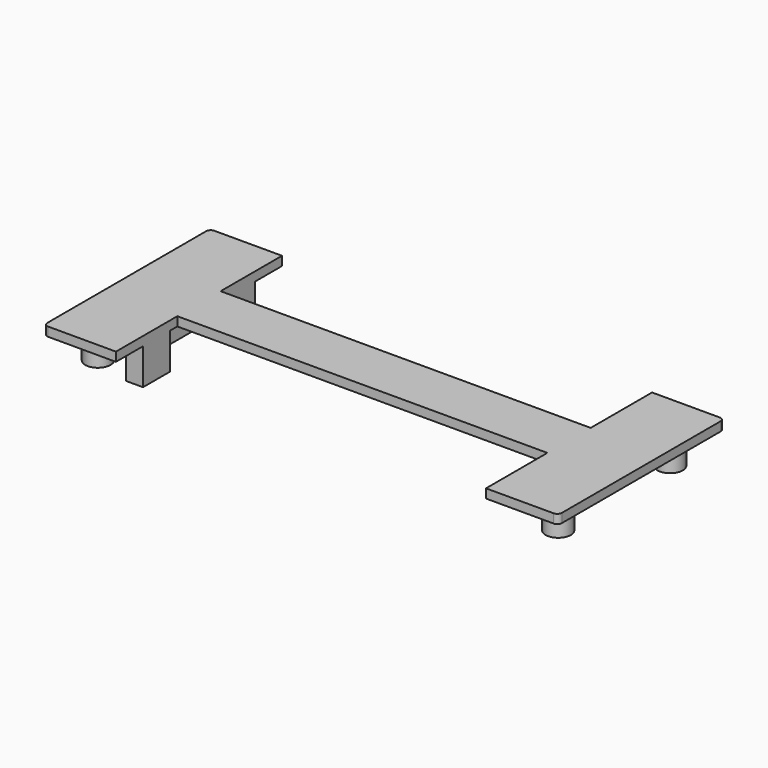
from build123d import *

# Parameters (mm, degrees)
PAD002_DEPTH            = 1
SKETCH007_R             = 1.4
SKETCH007_W             = 6
SKETCH007_H             = 8
PAD003_DEPTH            = 4
SKETCH013_W             = 2
SKETCH013_H             = 3.75
SKETCH013_H_2           = 5
PAD004_DEPTH            = 5
SKETCH014_W             = 41
SKETCH014_H             = 11.648772
SKETCH014_H_2           = 8.5
POCKET004_DEPTH         = 5.001
BODY001_PLACEMENT_ANGLE = 180


with BuildPart() as part:
    # Sketch006 → Pad002 (new body)
    with BuildSketch(Plane.XY):
        with BuildLine():
            Line((0.5, 0), (56.5, 0))
            ThreePointArc((56.5, 0), (56.853553, 0.146447), (57, 0.5))
            Line((57, 0.5), (57, 22.5))
            ThreePointArc((57, 22.5), (56.853553, 22.853553), (56.5, 23))
            Line((56.5, 23), (0.5, 23))
            ThreePointArc((0.5, 23), (0.146447, 22.853553), (0, 22.5))
            Line((0, 22.5), (0, 0.5))
            ThreePointArc((0, 0.5), (0.146447, 0.146447), (0.5, 0))
        make_face()
    extrude(amount=PAD002_DEPTH)

    # Sketch007 → Pad003 (join)
    with BuildSketch(Plane.XY):
        with Locations((3, 19.25)):
            Circle(SKETCH007_R)
        with Locations((3, 3.75)):
            Circle(SKETCH007_R)
        with Locations((54, 19.25)):
            Circle(SKETCH007_R)
        with Locations((54, 3.75)):
            Circle(SKETCH007_R)
        with Locations((3, 11.5)):
            Rectangle(SKETCH007_W, SKETCH007_H)
    extrude(amount=PAD003_DEPTH)

    # Sketch013 → Pad004 (join)
    with BuildSketch(Plane.XY):
        with Locations((7.1, 17.375)):
            Rectangle(SKETCH013_W, SKETCH013_H)
        with Locations((7.1, 5.625)):
            Rectangle(SKETCH013_W, SKETCH013_H)
        with Locations((50, 11.5)):
            Rectangle(SKETCH013_W, SKETCH013_H_2)
    extrude(amount=PAD004_DEPTH)

    # Sketch014 → Pocket004 (cut, through all)
    with BuildSketch(Plane.XY):
        with Locations((28.5, 20.324386)):
            Rectangle(SKETCH014_W, SKETCH014_H)
        with Locations((28.5, 4.25)):
            Rectangle(SKETCH014_W, SKETCH014_H_2)
    extrude(amount=POCKET004_DEPTH, mode=Mode.SUBTRACT)


with BuildPart() as part_1:
    # Body001 placement: moved
    add(part.part.moved(Location((0, 23, 16))).rotate(Axis((0, 23, 16), (-1, 0, 0)), BODY001_PLACEMENT_ANGLE))


solid = part_1.part
